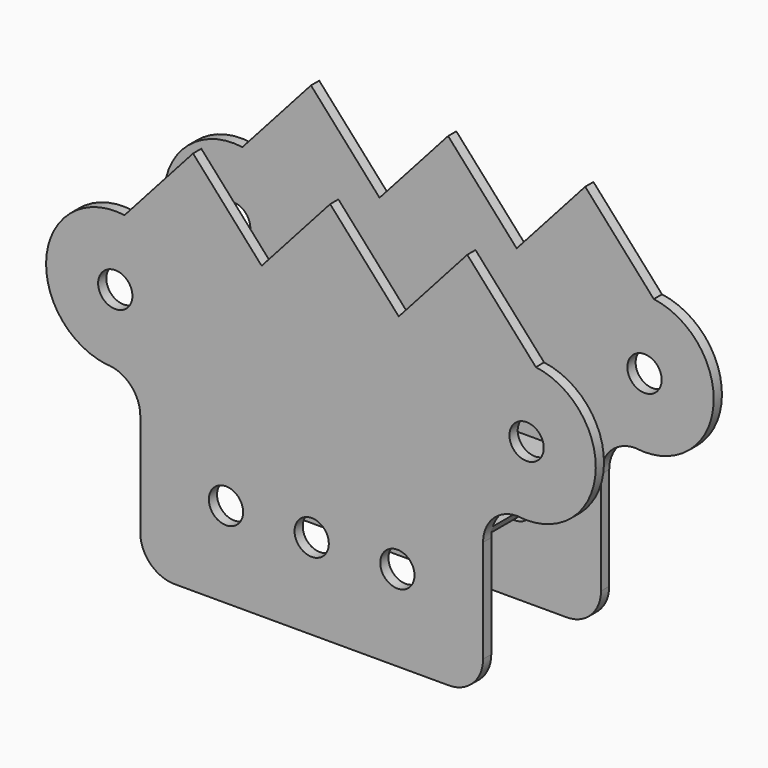
from build123d import *

# Parameters (mm, degrees)
F0_R     = 5
F1_DEPTH = 46
F2_W     = 40
F2_H     = 62.4393149427
F2_H_2   = 108.6921231934
F3_DEPTH = 132.8823650188
F4_DEPTH = 27.4824745393
F5_R     = 3


with BuildPart() as f1:
    # F0 (on Front) → F1 (new body)
    with BuildSketch(Plane.XZ):
        with BuildLine():
            Line((-34.6001095204, 38.0689354645), (-54.6001095204, 15.7082556895))
            ThreePointArc((-54.6001095204, 15.7082556895), (-77.3000547602, -1.5917990707), (-60, -24.2917443105))
            ThreePointArc((-60, -24.2917443105), (-52.9289321881, -27.2206764986), (-50, -34.2917443105))
            Line((-50, -34.2917443105), (-50, -64.2917443105))
            ThreePointArc((-50, -64.2917443105), (-47.0710678119, -71.3628121224), (-40, -74.2917443105))
            Line((-40, -74.2917443105), (40, -74.2917443105))
            ThreePointArc((40, -74.2917443105), (47.0710678119, -71.3628121224), (50, -64.2917443105))
            Line((50, -64.2917443105), (50, -34.2917443105))
            ThreePointArc((50, -34.2917443105), (52.9289321881, -27.2206764986), (60, -24.2917443105))
            ThreePointArc((60, -24.2917443105), (82.6999452398, -6.9916895503), (65.3998904796, 15.7082556895))
            Line((65.3998904796, 15.7082556895), (45.3998904796, 38.0689354645))
            Line((45.3998904796, 38.0689354645), (25.3998904796, 15.7082556895))
            Line((25.3998904796, 15.7082556895), (5.3998904796, 38.0689354645))
            Line((5.3998904796, 38.0689354645), (-14.6001095204, 15.7082556895))
            Line((-14.6001095204, 15.7082556895), (-34.6001095204, 38.0689354645))
        make_face()
        with Locations((-25, -49.2917443105)):
            Circle(F0_R, mode=Mode.SUBTRACT)
        with Locations((0, -49.2917443105)):
            Circle(F0_R, mode=Mode.SUBTRACT)
        with Locations((25, -49.2917443105)):
            Circle(F0_R, mode=Mode.SUBTRACT)
        with Locations((-57.3000547602, -4.2917443105)):
            Circle(F0_R, mode=Mode.SUBTRACT)
        with Locations((62.6999452398, -4.2917443105)):
            Circle(F0_R, mode=Mode.SUBTRACT)
    extrude(amount=F1_DEPTH)

    # F2 (on face) → F3 (cut, through all)
    with BuildSketch(Plane(origin=(-50, 0, 0), x_dir=(0, -1, 0), z_dir=(-1, 0, 0))):
        with Locations((23, -65.5114017819)):
            Rectangle(F2_W, F2_H)
        with Locations((23, 23.0543172862)):
            Rectangle(F2_W, F2_H_2)
    extrude(amount=-F3_DEPTH, mode=Mode.SUBTRACT)

    # F2 (on face) → F4 (cut, through all)
    with BuildSketch(Plane(origin=(-50, 0, 0), x_dir=(0, -1, 0), z_dir=(-1, 0, 0))):
        with Locations((23, -65.5114017819)):
            Rectangle(F2_W, F2_H)
        with Locations((23, 23.0543172862)):
            Rectangle(F2_W, F2_H_2)
    extrude(amount=F4_DEPTH, mode=Mode.SUBTRACT)

    # F5
    f5_edges = [f1.edges().sort_by_distance(p)[0] for p in [
        (-50, -1.5, -34.291744),
        (-50, -23, -34.291744),
        (-50, -44.5, -34.291744),
        (50, -1.5, -34.291744),
        (50, -44.5, -34.291744),
        (50, -23, -34.291744),
    ]]
    fillet(f5_edges, radius=F5_R)


solid = f1.part
